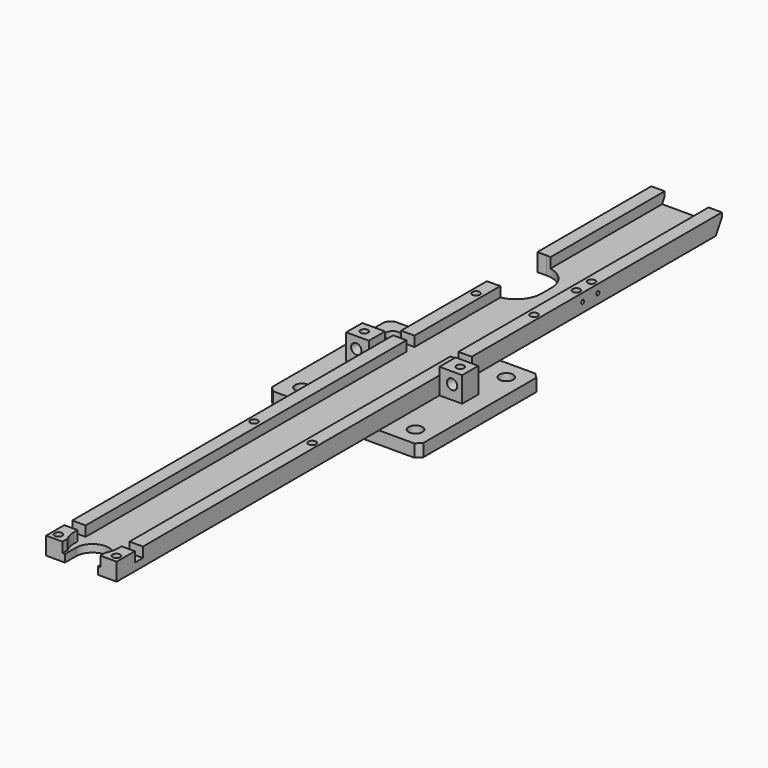
from build123d import *

# Parameters (mm, degrees)
F1_DEPTH  = 60
F3_DEPTH  = 130
F5_DEPTH  = 110
F6_R      = 2.75
F7_DEPTH  = 5.001
F8_W      = 9
F8_H      = 8
F9_DEPTH  = 10
F10_R     = 1.5
F11_DEPTH = 4.5
F12_R     = 2.05
F13_DEPTH = 140.001
F14_SIZE  = 2
F15_W     = 4
F15_H     = 4
F16_DEPTH = 44.001
F18_DEPTH = 44.001
F19_W     = 17.4
F19_H     = 15
F20_DEPTH = 4
F22_DEPTH = 12.001
F23_R     = 8.7
F24_DEPTH = 4
F25_W     = 17.4
F25_H     = 8
F26_DEPTH = 4
F27_W     = 18
F27_H     = 1
F28_DEPTH = 30.001
F30_DEPTH = 15
F31_R     = 10
F33_R     = 1.5
F34_DEPTH = 4
F35_W     = 18
F35_H     = 1
F36_DEPTH = 5.3
F37_R     = 0.75
F38_DEPTH = 44.001
F39_R     = 1.5
F40_DEPTH = 5
F41_R     = 1.5
F42_DEPTH = 5
F43_W     = 15
F43_H     = 14.0732699633
F44_DEPTH = 4
F45_R     = 1.5
F46_DEPTH = 4


with BuildPart() as f1:
    # F0 (on Front) → F1 (new body)
    with BuildSketch(Plane.XZ):
        Polygon((-14, 2.5), (-30, 2.5), (-30, -2.5), (30, -2.5), (30, 2.5), (14, 2.5), (14, 9.5), (8.7, 9.5), (8.7, 5.5), (-8.7, 5.5), (-8.7, 9.5), (-14, 9.5), align=None)
    extrude(amount=F1_DEPTH)

    # F2 (on face) → F3 (join)
    with BuildSketch(Plane.XZ.offset(60)):
        Polygon((14, 2.5), (14, 9.5), (8.7, 9.5), (8.7, 5.5), (-8.7, 5.5), (-8.7, 9.5), (-14, 9.5), (-14, 2.5), align=None)
    extrude(amount=F3_DEPTH)

    # F4 (on face) → F5 (join)
    with BuildSketch(Plane(origin=(0, 0, 0), x_dir=(-1, 0, 0), z_dir=(0, 1, 0))):
        Polygon((-8.7, 5.5), (-8.7, 9.5), (-14, 9.5), (-14, 2.5), (14, 2.5), (14, 9.5), (8.7, 9.5), (8.7, 5.5), align=None)
    extrude(amount=F5_DEPTH)

    # F6 (on face) → F7 (cut, through all)
    with BuildSketch(Plane.XY.offset(2.5)):
        with Locations((-22.5, -7.5)):
            Circle(F6_R)
        with Locations((22.5, -7.5)):
            Circle(F6_R)
        with Locations((-22.5, -52.5)):
            Circle(F6_R)
        with Locations((22.5, -52.5)):
            Circle(F6_R)
    extrude(amount=-F7_DEPTH, mode=Mode.SUBTRACT)

    # F8 (on face) → F9 (join)
    with BuildSketch(Plane.XY.offset(2.5)):
        with Locations((-18.5, -26)):
            Rectangle(F8_W, F8_H)
        with Locations((18.5, -26)):
            Rectangle(F8_W, F8_H)
    extrude(amount=F9_DEPTH)

    # F10 (on face) → F11 (cut)
    with BuildSketch(Plane.XY.offset(12.5)):
        with Locations((-19, -26)):
            Circle(F10_R)
        with Locations((19, -26)):
            Circle(F10_R)
    extrude(amount=-F11_DEPTH, mode=Mode.SUBTRACT)

    # F12 (on face) → F13 (cut, through all)
    with BuildSketch(Plane.XZ.offset(30)):
        with Locations((-19, 8)):
            Circle(F12_R)
        with Locations((19, 8)):
            Circle(F12_R)
    extrude(amount=-F13_DEPTH, mode=Mode.SUBTRACT)

    # F14
    f14_edges = [f1.edges().sort_by_distance(p)[0] for p in [
        (-30, -60, 0),
        (30, -60, 0),
        (30, 0, 0),
        (-30, 0, 0),
    ]]
    chamfer(f14_edges, length=F14_SIZE)

    # F15 (on face) → F16 (cut, through all)
    with BuildSketch(Plane(origin=(-14, 0, 0), x_dir=(0, -1, 0), z_dir=(-1, 0, 0))):
        with Locations((16, 7.5)):
            Rectangle(F15_W, F15_H)
        with Locations((179, 7.5)):
            Rectangle(F15_W, F15_H)
    extrude(amount=-F16_DEPTH, mode=Mode.SUBTRACT)

    # F17 (on face) → F18 (cut, through all)
    with BuildSketch(Plane(origin=(-14, 0, 0), x_dir=(0, -1, 0), z_dir=(-1, 0, 0))):
        Polygon((-107, 2.5), (-110, 7.6961524227), (-110, 2.5), align=None)
    extrude(amount=-F18_DEPTH, mode=Mode.SUBTRACT)

    # F19 (on face) → F20 (join, through all)
    with BuildSketch(Plane.XY.offset(5.5)):
        with Locations((0, -182.5)):
            Rectangle(F19_W, F19_H)
    extrude(amount=F20_DEPTH)

    # F21 (on face) → F22 (cut, through all)
    with BuildSketch(Plane.XY.offset(9.5)):
        with BuildLine():
            Line((-6.5, -190), (6.5, -190))
            Line((6.5, -190), (6.5, -184.5))
            ThreePointArc((6.5, -184.5), (0, -178), (-6.5, -184.5))
            Line((-6.5, -184.5), (-6.5, -190))
        make_face()
    extrude(amount=-F22_DEPTH, mode=Mode.SUBTRACT)

    # F23 (on face) → F24 (cut, through all)
    with BuildSketch(Plane.XY.offset(9.5)):
        with Locations((0, -183)):
            Circle(F23_R)
    extrude(amount=-F24_DEPTH, mode=Mode.SUBTRACT)

    # F25 (on face) → F26 (cut, through all)
    with BuildSketch(Plane.XY.offset(5.5)):
        with Locations((0, -179)):
            Rectangle(F25_W, F25_H)
    extrude(amount=F26_DEPTH, mode=Mode.SUBTRACT)

    # F27 (on Right) → F28 (cut, through all)
    with BuildSketch(Plane.YZ):
        with Locations((41, 6)):
            Rectangle(F27_W, F27_H)
    extrude(amount=F28_DEPTH, mode=Mode.SUBTRACT)

    # F29 (on face) → F30 (cut, symmetric)
    with BuildSketch(Plane.XY.offset(5.5)):
        Polygon((-0.4, 53.5), (-14.2, 53.5), (-14.2, 34.897705552), (-14.2, 28.5), (-0.4, 28.5), align=None)
    extrude(amount=F30_DEPTH, both=True, mode=Mode.SUBTRACT)

    # F31
    f31_edges = [f1.edges().sort_by_distance(p)[0] for p in [
        (-0.4, 53.5, 4),
        (-0.4, 28.5, 4),
    ]]
    fillet(f31_edges, radius=F31_R)

    # F33 (on face) → F34 (cut, through all)
    with BuildSketch(Plane.XY.offset(9.5)):
        with Locations((-11.5, -187)):
            Circle(F33_R)
        with Locations((11.5, -187)):
            Circle(F33_R)
        with Locations((11.5, -90)):
            Circle(F33_R)
        with Locations((-11.5, -90)):
            Circle(F33_R)
        with Locations((-11.5, 20)):
            Circle(F33_R)
        with Locations((11.5, 48.5)):
            Circle(F33_R)
        with Locations((11.5, 41)):
            Circle(F33_R)
        with Locations((11.5, 20)):
            Circle(F33_R)
    extrude(amount=-F34_DEPTH, mode=Mode.SUBTRACT)

    # F35 (on face) → F36 (join, through all)
    with BuildSketch(Plane.YZ.offset(14)):
        with Locations((41, 6)):
            Rectangle(F35_W, F35_H)
    extrude(amount=-F36_DEPTH)

    # F37 (on face) → F38 (cut, through all)
    with BuildSketch(Plane.YZ.offset(14)):
        with BuildLine():
            ThreePointArc((41, 5.5), (41.5303300859, 5.7196699141), (41.75, 6.25))
            ThreePointArc((41.75, 6.25), (40.4696699141, 6.7803300859), (41, 5.5))
        make_face()
        with Locations((48.5, 6.25)):
            Circle(F37_R)
    extrude(amount=-F38_DEPTH, mode=Mode.SUBTRACT)

    # F39 (on face) → F40 (cut)
    with BuildSketch(Plane.XY.offset(9.5)):
        with Locations((-11.5, -187)):
            Circle(F39_R)
        with Locations((11.5, -187)):
            Circle(F39_R)
        with Locations((-11.5, -90)):
            Circle(F39_R)
        with Locations((11.5, -90)):
            Circle(F39_R)
        with Locations((-11.5, 20)):
            Circle(F39_R)
        with Locations((11.5, 20)):
            Circle(F39_R)
    extrude(amount=-F40_DEPTH, mode=Mode.SUBTRACT)

    # F41 (on face) → F42 (cut)
    with BuildSketch(Plane(origin=(-14, 0, 0), x_dir=(0, -1, 0), z_dir=(-1, 0, 0))):
        with Locations((-25, 6)):
            Circle(F41_R)
    extrude(amount=-F42_DEPTH, mode=Mode.SUBTRACT)

    # F43 (on face) → F44 (cut, through all)
    with BuildSketch(Plane.XY.offset(9.5)):
        with Locations((0, -182.9633650184)):
            Rectangle(F43_W, F43_H)
    extrude(amount=-F44_DEPTH, mode=Mode.SUBTRACT)

    # F45 (on face) → F46 (cut)
    with BuildSketch(Plane.XY.offset(9.5)):
        with Locations((11.5, 41)):
            Circle(F45_R)
        with Locations((11.5, 48.5)):
            Circle(F45_R)
    extrude(amount=-F46_DEPTH, mode=Mode.SUBTRACT)


solid = f1.part
